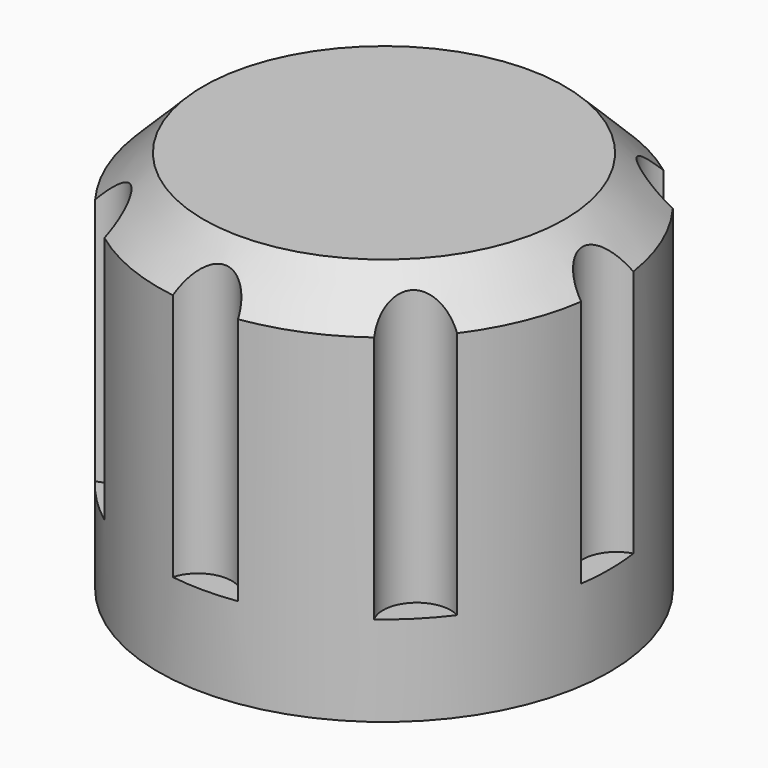
from build123d import *

# Parameters (mm, degrees)
CYLINDER001_R     = 1.5
CYLINDER001_DEPTH = 15
ARRAY_COUNT       = 8
CYLINDER_R        = 10
CYLINDER_DEPTH    = 17
CHAMFER_SIZE      = 2


with BuildPart() as array:
    # Cylinder001 → Cylinder001 (new body)
    with BuildSketch(Plane(origin=(0.2, 0, 12), x_dir=(1, 0, 0), z_dir=(0, 0, 1))):
        Circle(CYLINDER001_R)
    extrude(amount=CYLINDER001_DEPTH)

    # Array: Array ×8 about axis
    array_axis = Axis((10.5, 0, 0), (0, 0, 1))


with BuildPart() as array_1:
    add(array.part)
    for i in range(1, ARRAY_COUNT):
        add(array.part.rotate(array_axis, i * 360 / ARRAY_COUNT))


with BuildPart() as cut:
    # Cylinder → Cylinder (new body)
    with BuildSketch(Plane(origin=(10.5, 0, 8), x_dir=(1, 0, 0), z_dir=(0, 0, 1))):
        Circle(CYLINDER_R)
    extrude(amount=CYLINDER_DEPTH)

    # Chamfer
    chamfer_edges = [cut.edges().sort_by_distance(p)[0] for p in [
        (0.5, 0, 25),
    ]]
    chamfer(chamfer_edges, length=CHAMFER_SIZE)

    # Cut: cut Array
    add(array_1.part, mode=Mode.SUBTRACT)


solid = cut.part
